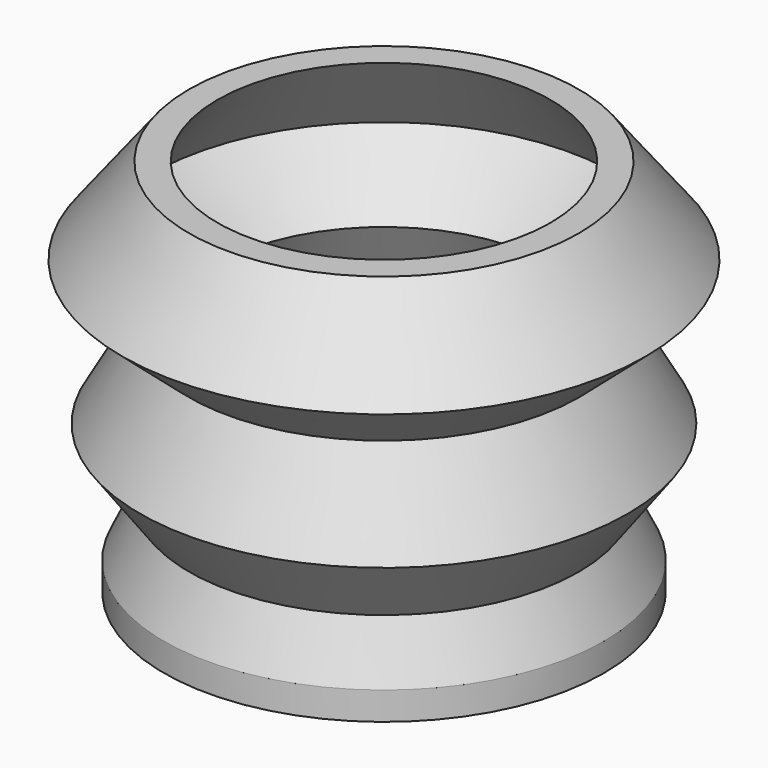
from build123d import *


with BuildPart() as f1:
    # F0 (on Front) → F1 (revolve)
    with BuildSketch(Plane.XZ):
        Polygon((22.767356, 3.278667), (0, 3.278667), (0, 0), (25.701682, 0), (25.701682, 3.278667), (22.767356, 9.456194), (28.492866, 17.291106), (22.767356, 27.38609), (30.602269, 34.166299), (22.767356, 44.261284), (19.452583, 44.261284), (27.136825, 34.166299), (19.452583, 27.38609), (25.32877, 16.839093), (19.904599, 9.305523), align=None)
    revolve(axis=Axis((0, 0, 1.639334), (0, 0, 1)))


solid = f1.part
